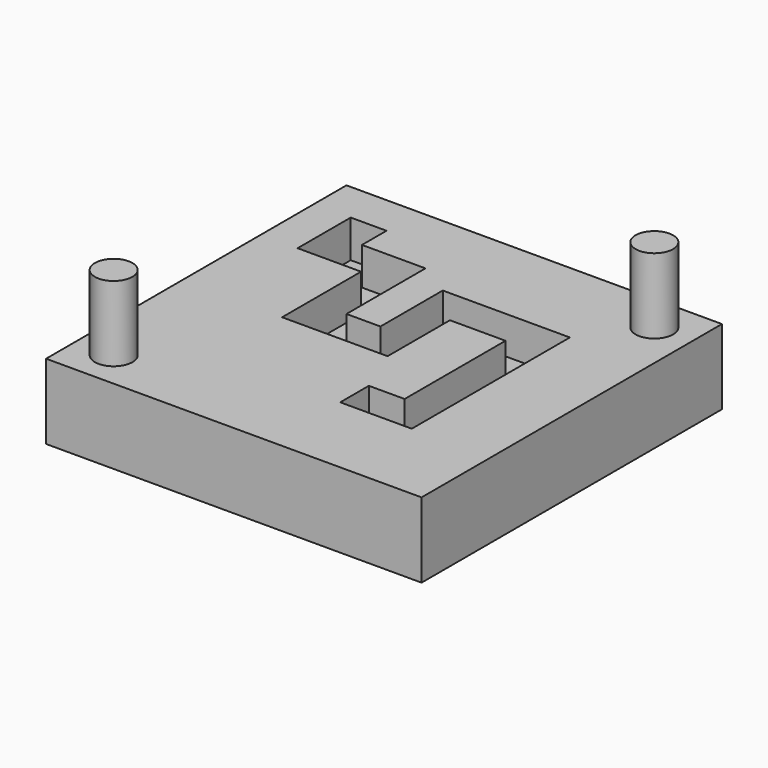
from build123d import *

# Parameters (mm, degrees)
F0_W          = 50
F0_H          = 50
F0_R          = 2.5
F1_DEPTH      = 5
F0_W_2        = 4.7625
F0_H_2        = 4.7625
F2_DEPTH      = 2.38125
F3_DEPTH      = 5
F4_DEPTH      = 15
F4_DEPTH_BACK = 5


with BuildPart() as f1:
    # F0 (on Top) → F1 (new body, symmetric)
    with BuildSketch(Plane.XY):
        with Locations((25, -25)):
            Rectangle(F0_W, F0_H)
        with Locations((5, -45)):
            Circle(F0_R, mode=Mode.SUBTRACT)
        Polygon((18.098719, -22.61875), (22.61875, -22.61875), (22.61875, -12.242739), (39.545106, -12.242739), (39.545106, -17.005239), (39.545106, -38.55984), (34.782606, -38.55984), (30.020106, -38.55984), (30.020106, -33.79734), (34.782606, -33.79734), (34.782606, -17.005239), (27.38125, -17.005239), (27.38125, -22.61875), (27.38125, -25), (27.38125, -27.38125), (25, -27.38125), (22.61875, -27.38125), (18.098719, -27.38125), (13.336219, -27.38125), (13.336219, -14.235092), (4.879977, -14.235092), (4.879977, -9.472592), (4.879977, -5.390268), (9.642477, -5.390268), (9.642477, -9.472592), (13.336219, -9.472592), (18.098719, -9.472592), (18.098719, -14.235092), align=None, mode=Mode.SUBTRACT)
        with Locations((45, -5)):
            Circle(F0_R, mode=Mode.SUBTRACT)
    extrude(amount=F1_DEPTH, both=True)

    # F0 (on Top) → F2 (cut)
    with BuildSketch(Plane.XY):
        Polygon((22.61875, -27.38125), (22.61875, -25), (22.61875, -22.61875), (18.098719, -22.61875), (18.098719, -14.235092), (18.098719, -9.472592), (13.336219, -9.472592), (9.642477, -9.472592), (9.642477, -5.390268), (4.879977, -5.390268), (4.879977, -9.472592), (4.879977, -14.235092), (13.336219, -14.235092), (13.336219, -27.38125), (18.098719, -27.38125), align=None)
        Polygon((22.61875, -12.242739), (22.61875, -22.61875), (25, -22.61875), (27.38125, -22.61875), (27.38125, -17.005239), (34.782606, -17.005239), (34.782606, -33.79734), (34.782606, -38.55984), (39.545106, -38.55984), (39.545106, -17.005239), (39.545106, -12.242739), align=None)
        with Locations((32.401356, -36.17859)):
            Rectangle(F0_W_2, F0_H_2)
    extrude(amount=F2_DEPTH, mode=Mode.SUBTRACT)

    # F0 (on Top) → F3 (join)
    with BuildSketch(Plane.XY):
        Polygon((22.61875, -12.242739), (22.61875, -22.61875), (25, -22.61875), (27.38125, -22.61875), (27.38125, -17.005239), (34.782606, -17.005239), (34.782606, -33.79734), (34.782606, -38.55984), (39.545106, -38.55984), (39.545106, -17.005239), (39.545106, -12.242739), align=None)
        with Locations((32.401356, -36.17859)):
            Rectangle(F0_W_2, F0_H_2)
        Polygon((22.61875, -27.38125), (22.61875, -25), (22.61875, -22.61875), (18.098719, -22.61875), (18.098719, -14.235092), (18.098719, -9.472592), (13.336219, -9.472592), (9.642477, -9.472592), (9.642477, -5.390268), (4.879977, -5.390268), (4.879977, -9.472592), (4.879977, -14.235092), (13.336219, -14.235092), (13.336219, -27.38125), (18.098719, -27.38125), align=None)
    extrude(amount=-F3_DEPTH)

    # F0 (on Top) → F4 (join, two sides)
    with BuildSketch(Plane.XY) as f4_sk:
        with Locations((5, -45)):
            Circle(F0_R)
        with Locations((45, -5)):
            Circle(F0_R)
    extrude(amount=F4_DEPTH)
    extrude(f4_sk.sketch, amount=-F4_DEPTH_BACK)


solid = f1.part
